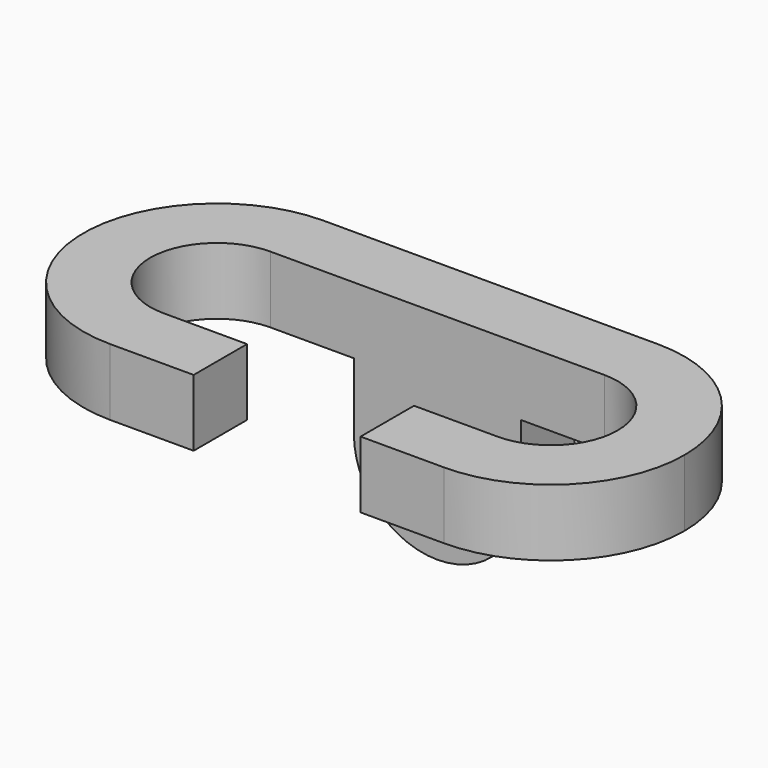
from build123d import *

# Parameters (mm, degrees)
F1_DEPTH = 12.7
F2_R     = 6.35
F3_DEPTH = 12.7


with BuildPart() as f1:
    # F0 (on Top) → F1 (new body)
    with BuildSketch(Plane.XY):
        with BuildLine():
            ThreePointArc((21.997045, 12.7), (12.7, 21.997045), (0, 25.4))
            ThreePointArc((0, 25.4), (-25.4, 0), (0, -25.4))
            ThreePointArc((0, -25.4), (8.412257, -23.966517), (15.875, -19.827869))
            Line((15.875, -19.827869), (15.875, -12.7))
            Line((15.875, -12.7), (0, -12.7))
            ThreePointArc((0, -12.7), (-12.7, 0), (0, 12.7))
            Line((0, 12.7), (21.997045, 12.7))
        make_face()
        with BuildLine():
            Line((63.5, 25.4), (0, 25.4))
            ThreePointArc((0, 25.4), (12.7, 21.997045), (21.997045, 12.7))
            Line((21.997045, 12.7), (41.502955, 12.7))
            ThreePointArc((41.502955, 12.7), (50.8, 21.997045), (63.5, 25.4))
        make_face()
        with BuildLine():
            ThreePointArc((88.9, 0), (81.460512, 17.960512), (63.5, 25.4))
            ThreePointArc((63.5, 25.4), (50.8, 21.997045), (41.502955, 12.7))
            Line((41.502955, 12.7), (63.5, 12.7))
            ThreePointArc((63.5, 12.7), (72.480256, 8.980256), (76.2, 0))
            ThreePointArc((76.2, 0), (72.480256, -8.980256), (63.5, -12.7))
            Line((63.5, -12.7), (63.5, -25.4))
            ThreePointArc((63.5, -25.4), (81.460512, -17.960512), (88.9, 0))
        make_face()
        with BuildLine():
            ThreePointArc((63.5, -25.4), (55.087743, -23.966517), (47.625, -19.827869))
            Line((47.625, -19.827869), (47.625, -25.4))
            Line((47.625, -25.4), (63.5, -25.4))
        make_face()
        with BuildLine():
            ThreePointArc((15.875, -19.827869), (8.412257, -23.966517), (0, -25.4))
            Line((0, -25.4), (15.875, -25.4))
            Line((15.875, -25.4), (15.875, -19.827869))
        make_face()
        with BuildLine():
            Line((47.625, -12.7), (47.625, -19.827869))
            ThreePointArc((47.625, -19.827869), (55.087743, -23.966517), (63.5, -25.4))
            Line((63.5, -25.4), (63.5, -12.7))
            Line((63.5, -12.7), (47.625, -12.7))
        make_face()
    extrude(amount=F1_DEPTH)

    # F2 (on face) → F3 (join, through all)
    with BuildSketch(Plane(origin=(0, 25.4, 0), x_dir=(-1, 0, 0), z_dir=(0, 1, 0))):
        with BuildLine():
            ThreePointArc((-47.625, -12.7), (-31.75, -28.575), (-15.875, -12.7))
            ThreePointArc((-15.875, -12.7), (-31.75, 3.175), (-47.625, -12.7))
        make_face()
        with Locations((-31.75, -12.7)):
            Circle(F2_R, mode=Mode.SUBTRACT)
        with BuildLine():
            ThreePointArc((-22.225, 0), (-17.550968, -5.600484), (-15.875, -12.7))
            Line((-15.875, -12.7), (-15.875, 0))
            Line((-15.875, 0), (-22.225, 0))
        make_face()
        with BuildLine():
            Line((-47.625, 0), (-47.625, -12.7))
            ThreePointArc((-47.625, -12.7), (-45.949032, -5.600484), (-41.275, 0))
            Line((-41.275, 0), (-47.625, 0))
        make_face()
    extrude(amount=-F3_DEPTH)


solid = f1.part
